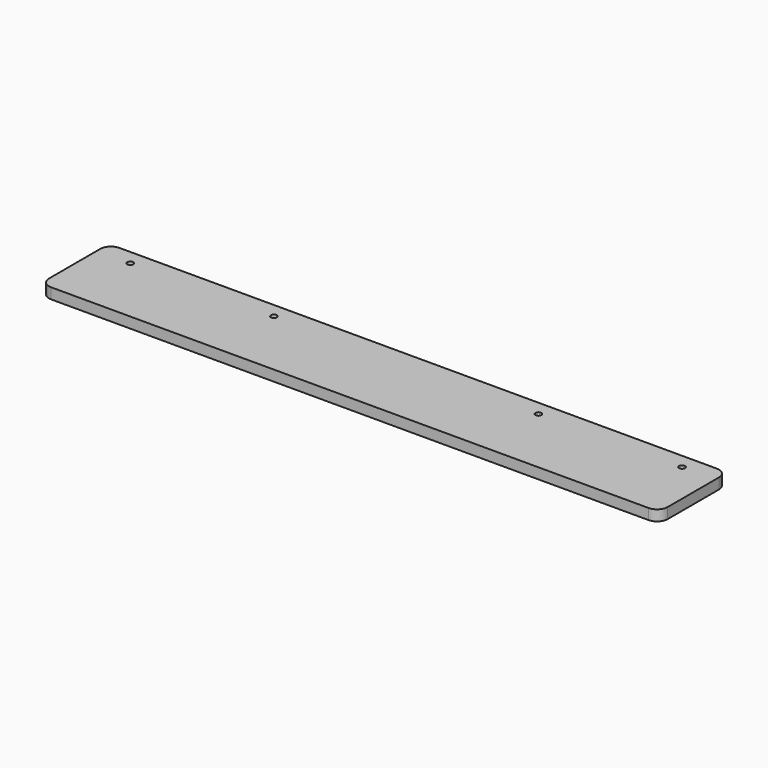
from build123d import *

# Parameters (mm, degrees)
SKETCH_R  = 1.4
PAD_DEPTH = 5


with BuildPart() as part:
    # Sketch → Pad (new body)
    with BuildSketch(Plane.XY):
        with BuildLine():
            Line((-145, 15), (-145, -15))
            ThreePointArc((-145, -15), (-143.535534, -18.535534), (-140, -20))
            Line((-140, -20), (140, -20))
            ThreePointArc((140, -20), (143.535534, -18.535534), (145, -15))
            Line((145, -15), (145, 15))
            ThreePointArc((145, 15), (143.535534, 18.535534), (140, 20))
            Line((140, 20), (-140, 20))
            ThreePointArc((-140, 20), (-143.535534, 18.535534), (-145, 15))
        make_face()
        with Locations((-62, 13)):
            Circle(SKETCH_R, mode=Mode.SUBTRACT)
        with Locations((62, 13)):
            Circle(SKETCH_R, mode=Mode.SUBTRACT)
        with Locations((-129.3, 13)):
            Circle(SKETCH_R, mode=Mode.SUBTRACT)
        with Locations((129.3, 13)):
            Circle(SKETCH_R, mode=Mode.SUBTRACT)
    extrude(amount=PAD_DEPTH)


solid = part.part
